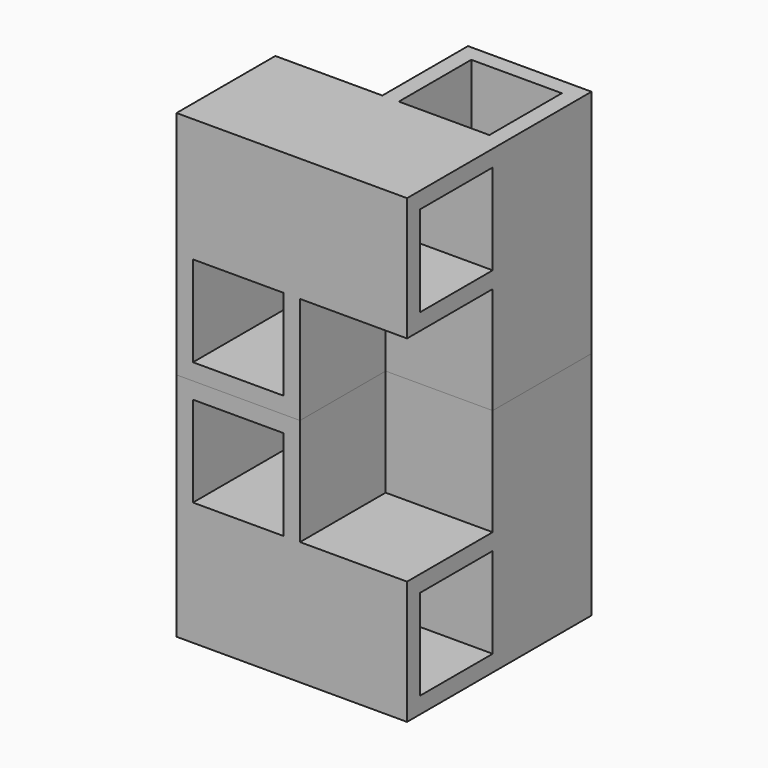
from build123d import *

# Parameters (mm, degrees)
F0_W     = 22.5
F0_H     = 22.5
F0_W_2   = 16.5
F0_H_2   = 16.5
F1_DEPTH = 42
F2_W     = 22.5
F2_H     = 22.5
F2_W_2   = 16.5
F2_H_2   = 16.5
F3_DEPTH = 42
F4_W     = 22.5
F4_H     = 22.5
F4_W_2   = 16.5
F4_H_2   = 16.5
F5_DEPTH = 42


with BuildPart() as f1:
    # F0 (on Front) → F1 (new body)
    with BuildSketch(Plane.XZ):
        with Locations((-11.25, 11.25)):
            Rectangle(F0_W, F0_H)
        with Locations((-11.25, 11.25)):
            Rectangle(F0_W_2, F0_H_2, mode=Mode.SUBTRACT)
    extrude(amount=F1_DEPTH)

    # F2 (on face) → F3 (join)
    with BuildSketch(Plane(origin=(-22.5, 0, 0), x_dir=(0, -1, 0), z_dir=(-1, 0, 0))):
        with Locations((30.75, 30.75)):
            Rectangle(F2_W, F2_H)
        with Locations((30.75, 30.75)):
            Rectangle(F2_W_2, F2_H_2, mode=Mode.SUBTRACT)
    extrude(amount=-F3_DEPTH)

    # F4 (on face) → F5 (join)
    with BuildSketch(Plane.XY.offset(42)):
        with Locations((8.25, -11.25)):
            Rectangle(F4_W, F4_H)
        with Locations((8.25, -11.25)):
            Rectangle(F4_W_2, F4_H_2, mode=Mode.SUBTRACT)
    extrude(amount=-F5_DEPTH)


with BuildPart() as f6_1:
    # F6: instance of F1
    add(f1.part.mirror(Plane.XY))


solid = Compound([f1.part, f6_1.part])
